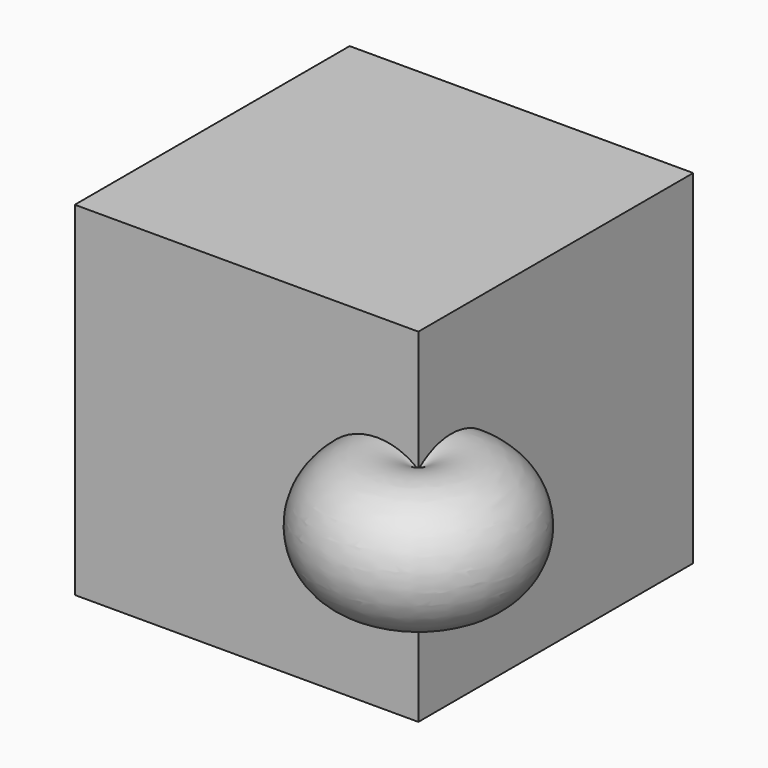
from build123d import *

# Parameters (mm, degrees)
F0_W     = 40
F0_H     = 40
F1_DEPTH = 40


with BuildPart() as f1:
    # F0 (on Front) → F1 (new body)
    with BuildSketch(Plane.XZ):
        with Locations((20, 20)):
            Rectangle(F0_W, F0_H)
    extrude(amount=F1_DEPTH)

    # F2 (on face) → F3 (revolve)
    with BuildSketch(Plane.XZ.offset(40)):
        with BuildLine():
            ThreePointArc((40, 14.394108206), (52.2518492902, 20.1249141246), (40, 25.8557200432))
            Line((40, 25.8557200432), (40, 14.394108206))
        make_face()
    revolve(axis=Axis((40, -40, 20), (0, 0, 1)))


solid = f1.part
